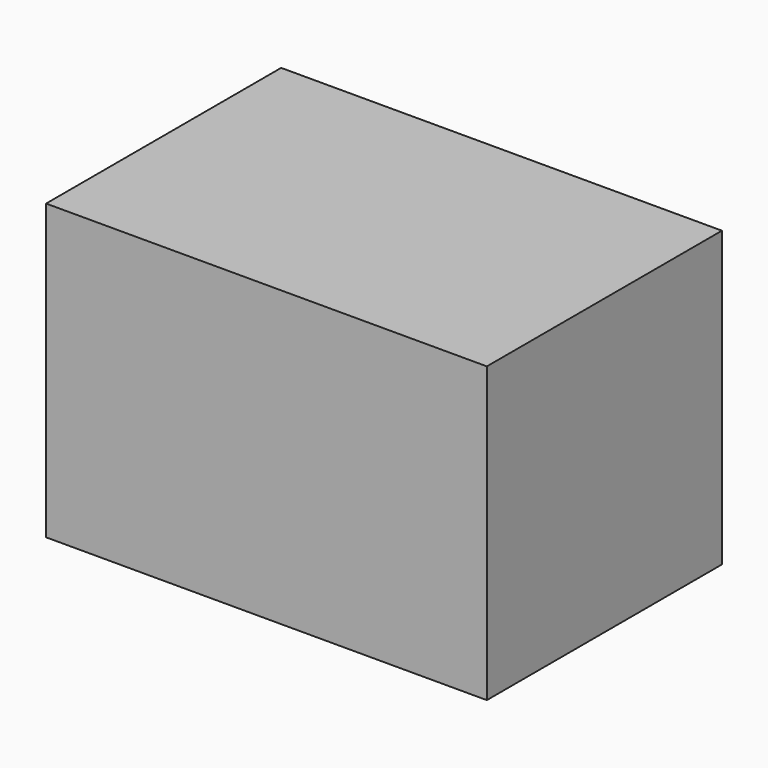
from build123d import *

# Parameters (mm, degrees)
F1_DEPTH = 12.7


with BuildPart() as f1:
    # F0 (on Front) → F1 (new body, symmetric)
    with BuildSketch(Plane.XZ):
        Polygon((-38.1, 0), (0, 0), (0, 6.35), (-19.05, 25.4), (-38.1, 25.4), align=None)
        Polygon((-19.05, 25.4), (0, 6.35), (0, 25.4), align=None)
    extrude(amount=F1_DEPTH, both=True)


solid = f1.part
